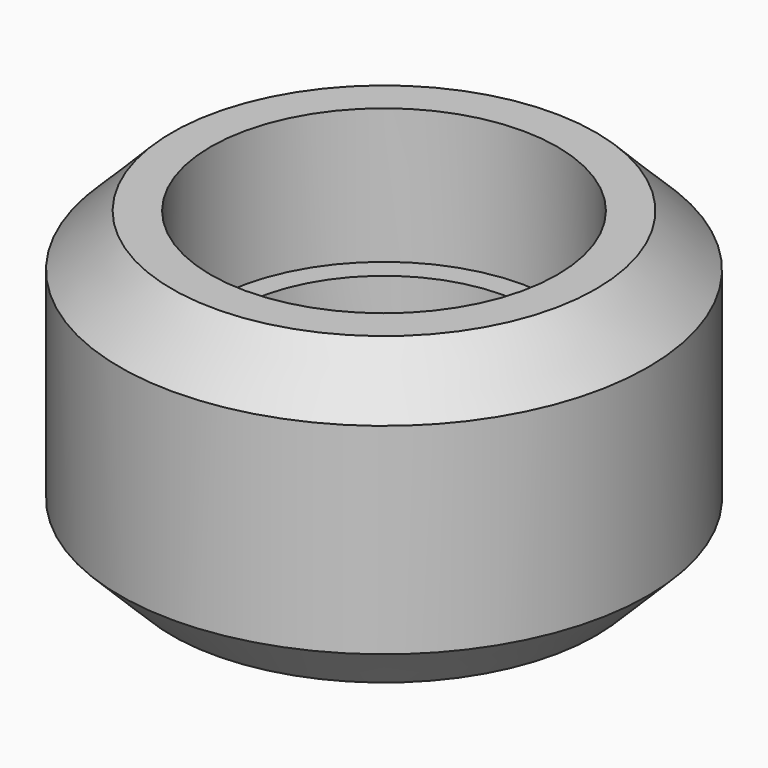
from build123d import *

# Parameters (mm, degrees)
F0_R     = 7.615
F1_DEPTH = 8.8
F2_SIZE  = 1.5
F3_R     = 5
F4_DEPTH = 3.9
F5_R     = 5
F6_DEPTH = 3.9
F7_R     = 4.32
F8_DEPTH = 25


with BuildPart() as f1:
    # F0 (on Top) → F1 (new body)
    with BuildSketch(Plane.XY):
        Circle(F0_R)
    extrude(amount=F1_DEPTH)

    # F2
    f2_edges = [f1.edges().sort_by_distance(p)[0] for p in [
        (-7.615, 0, 8.8),
        (-7.615, 0, 0),
    ]]
    chamfer(f2_edges, length=F2_SIZE)

    # F3 (on face) → F4 (cut)
    with BuildSketch(Plane(origin=(0, 0, 0), x_dir=(1, 0, 0), z_dir=(0, 0, -1))):
        Circle(F3_R)
    extrude(amount=-F4_DEPTH, mode=Mode.SUBTRACT)

    # F5 (on face) → F6 (cut)
    with BuildSketch(Plane.XY.offset(8.8)):
        Circle(F5_R)
    extrude(amount=-F6_DEPTH, mode=Mode.SUBTRACT)

    # F7 (on face) → F8 (cut)
    with BuildSketch(Plane.XY.offset(4.9)):
        Circle(F7_R)
    extrude(amount=-F8_DEPTH, mode=Mode.SUBTRACT)


solid = f1.part
